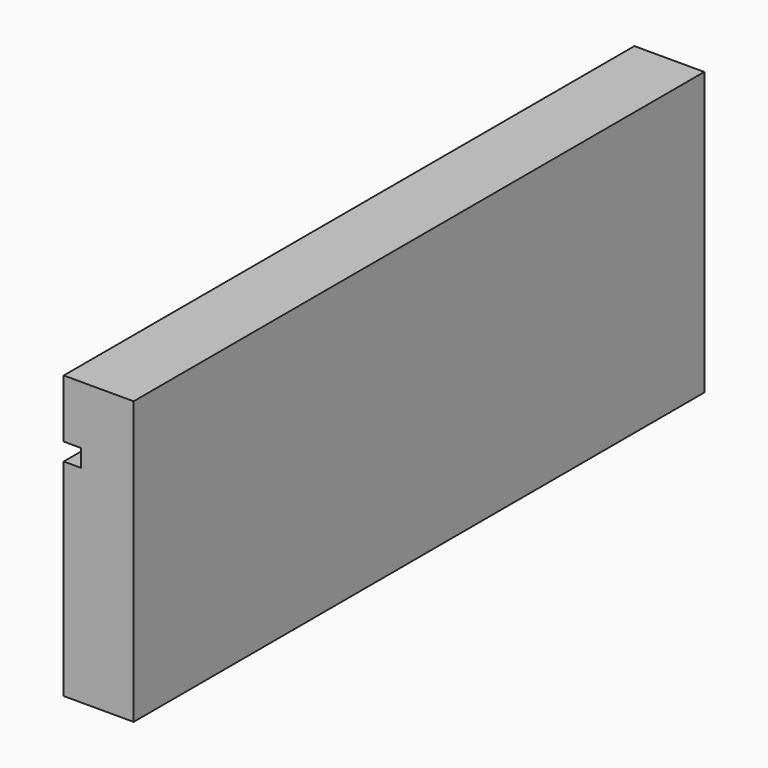
from build123d import *

# Parameters (mm, degrees)
F0_W     = 122.470968
F0_H     = 48.464448
F1_DEPTH = 12
F2_W     = 3
F2_H     = 3
F3_DEPTH = 30000


with BuildPart() as f1:
    # F0 (on Right) → F1 (new body)
    with BuildSketch(Plane.YZ):
        Rectangle(F0_W, F0_H)
    extrude(amount=F1_DEPTH)

    # F2 (on face) → F3 (cut)
    with BuildSketch(Plane.XZ.offset(61.235484)):
        with Locations((1.5, 12.732224)):
            Rectangle(F2_W, F2_H)
    extrude(amount=-F3_DEPTH, mode=Mode.SUBTRACT)


solid = f1.part
